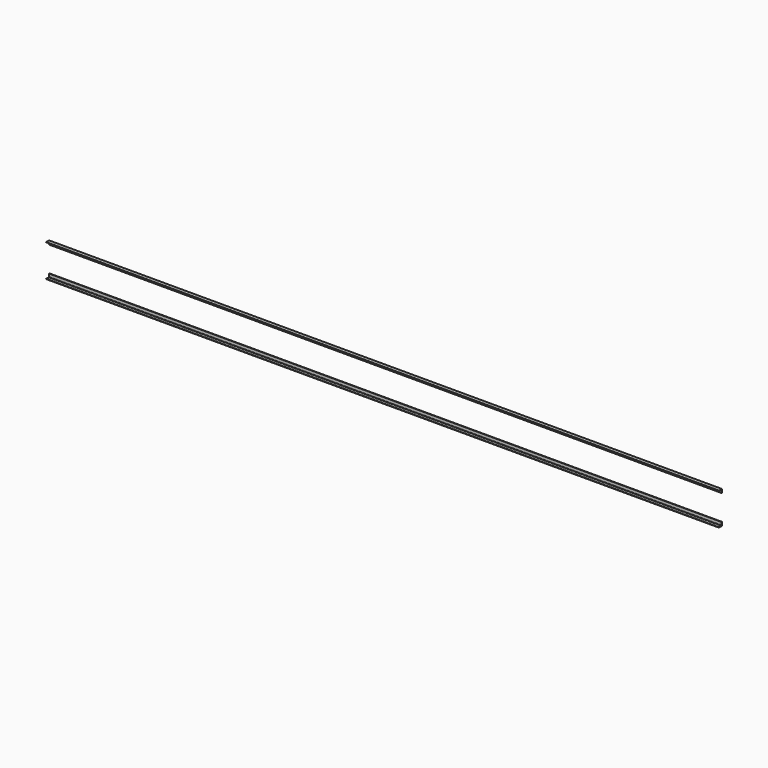
from build123d import *

# Parameters (mm, degrees)
EXTRUDE017_DEPTH = 16500
EXTRUDE018_DEPTH = 16500


with BuildPart() as extrude017:
    # AngleSteel004 → Extrude017 (new body)
    with BuildSketch(Plane(origin=(0, 53.415282, 39.015282), x_dir=(0, 1, 0), z_dir=(-1, 0, 0))):
        with BuildLine():
            Line((-24.615282, 24.615282), (-24.615282, -65.384718))
            Line((-24.615282, -65.384718), (-22.615282, -65.384718))
            ThreePointArc((-22.615282, -65.384718), (-19.079748, -63.920252), (-17.615282, -60.384718))
            Line((-17.615282, -60.384718), (-17.615282, 7.615282))
            ThreePointArc((-17.615282, 7.615282), (-14.68635, 14.68635), (-7.615282, 17.615282))
            Line((-7.615282, 17.615282), (60.384718, 17.615282))
            ThreePointArc((60.384718, 17.615282), (63.920252, 19.079748), (65.384718, 22.615282))
            Line((65.384718, 22.615282), (65.384718, 24.615282))
            Line((65.384718, 24.615282), (-24.615282, 24.615282))
        make_face()
    extrude(amount=-EXTRUDE017_DEPTH)


with BuildPart() as fusion001:
    # Mirror → Extrude018 (new body)
    with BuildSketch(Plane(origin=(0, 53.415282, 789.777402), x_dir=(0, -1, 0), z_dir=(1, 0, 0))):
        with BuildLine():
            Line((24.615282, -24.615282), (24.615282, 65.384718))
            Line((24.615282, 65.384718), (22.615282, 65.384718))
            ThreePointArc((22.615282, 65.384718), (19.079748, 63.920252), (17.615282, 60.384718))
            Line((17.615282, 60.384718), (17.615282, -7.615282))
            ThreePointArc((17.615282, -7.615282), (14.68635, -14.68635), (7.615282, -17.615282))
            Line((7.615282, -17.615282), (-60.384718, -17.615282))
            ThreePointArc((-60.384718, -17.615282), (-63.920252, -19.079748), (-65.384718, -22.615282))
            Line((-65.384718, -22.615282), (-65.384718, -24.615282))
            Line((-65.384718, -24.615282), (24.615282, -24.615282))
        make_face()
    extrude(amount=EXTRUDE018_DEPTH)

    # Fusion001: union Extrude017
    add(extrude017.part)


with BuildPart() as fusion_mirrored:
    # Mirror001: instance of Fusion001
    add(fusion001.part.mirror(Plane(origin=(0, 28.796342, 514.396342), x_dir=(-1, 0, 0), z_dir=(0, -1, 0))))


with BuildPart() as fusion_mirrored_1:
    # Mirror001 placement: moved
    add(fusion_mirrored.part.moved(Location((0, -6, 0))))


solid = fusion_mirrored_1.part
